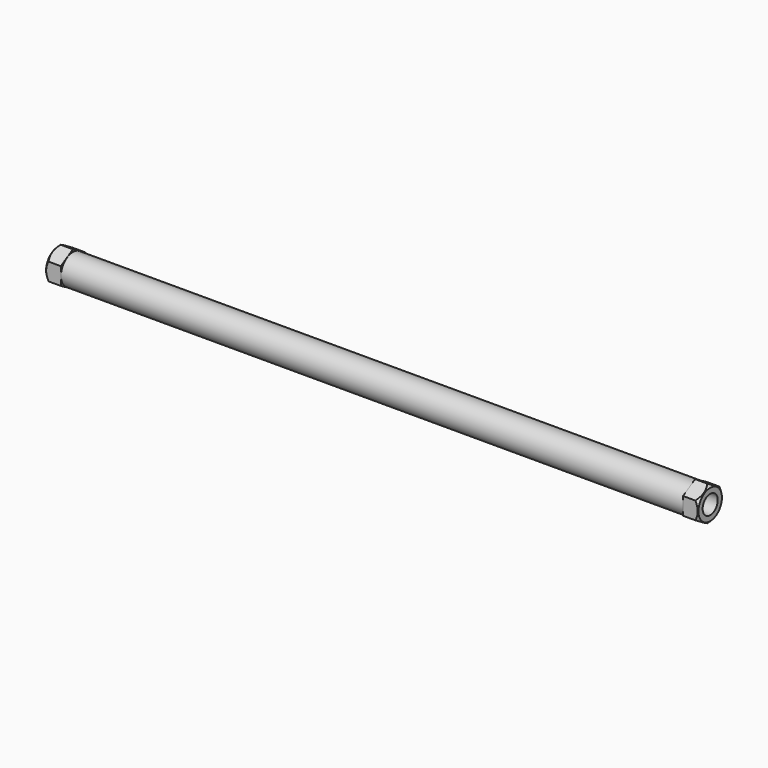
from build123d import *

# Parameters (mm, degrees)
F0_R     = 7.95
F0_R_2   = 6.45
F1_DEPTH = 165
F2_R     = 5
F3_DEPTH = 8


with BuildPart() as f1:
    # F0 (on Right) → F1 (new body, symmetric)
    with BuildSketch(Plane.YZ):
        Circle(F0_R)
        Circle(F0_R_2, mode=Mode.SUBTRACT)
    extrude(amount=F1_DEPTH, both=True)


with BuildPart() as f3:
    # F2 (on face) → F3 (new body)
    with BuildSketch(Plane.YZ.offset(165)):
        Polygon((8, -4.6188021535), (8, 4.6188021535), (0, 9.237604307), (-8, 4.6188021535), (-8, -4.6188021535), (0, -9.237604307), align=None)
        Circle(F2_R, mode=Mode.SUBTRACT)
    extrude(amount=F3_DEPTH)

    # F4 (on Front) → F5 (revolve, cut)
    with BuildSketch(Plane.XZ):
        Polygon((173, 7.7880034223), (173, 9.237604307), (171.5503991153, 9.237604307), align=None)
    revolve(axis=Axis((116.1560341716, 0, 0), (1, 0, 0)), mode=Mode.SUBTRACT)


with BuildPart() as f6_1:
    # F6: instance of F3
    add(f3.part.mirror(Plane.YZ))


solid = Compound([f1.part, f3.part, f6_1.part])
